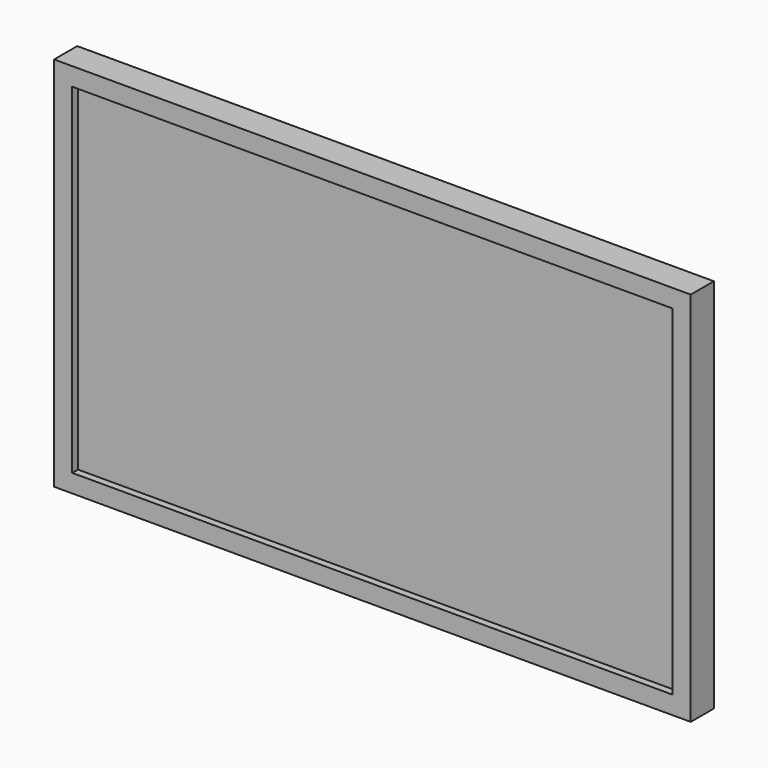
from build123d import *

# Parameters (mm, degrees)
F0_W     = 558.8
F0_H     = 330.2
F0_W_2   = 527.05
F0_H_2   = 298.45
F1_DEPTH = 25.4
F2_DEPTH = 19.05
F3_W     = 406.4
F3_H     = 209.55
F4_DEPTH = 19.05
F5_W     = 406.4
F5_H     = 15.875
F5_H_2   = 47.625
F6_DEPTH = 9.525
F8_DEPTH = 9.525


with BuildPart() as f1:
    # F0 (on Front) → F1 (new body)
    with BuildSketch(Plane.XZ):
        with Locations((-9.705722, 22.848336)):
            Rectangle(F0_W, F0_H)
        with Locations((-9.705722, 22.848336)):
            Rectangle(F0_W_2, F0_H_2, mode=Mode.SUBTRACT)
    extrude(amount=F1_DEPTH)

    # F0 (on Front) → F2 (join)
    with BuildSketch(Plane.XZ):
        with Locations((-9.705722, 22.848336)):
            Rectangle(F0_W_2, F0_H_2)
    extrude(amount=F2_DEPTH)

    # F3 (on face) → F4 (join)
    with BuildSketch(Plane.XZ):
        with Locations((-9.705722, 26.023336)):
            Rectangle(F3_W, F3_H)
    extrude(amount=-F4_DEPTH)

    # F5 (on face) → F6 (cut)
    with BuildSketch(Plane.XZ):
        with Locations((-9.705722, -134.314164)):
            Rectangle(F5_W, F5_H)
        with Locations((-9.705722, -102.564164)):
            Rectangle(F5_W, F5_H_2)
    extrude(amount=F6_DEPTH, mode=Mode.SUBTRACT)

    # F7 (on face) → F8 (join)
    with BuildSketch(Plane.XZ):
        Polygon((-50.980722, -126.376664), (31.569278, -126.376664), (31.996309, -78.751664), (31.569278, -78.751664), (-50.980722, -78.751664), align=None)
    extrude(amount=-F8_DEPTH)


solid = f1.part
